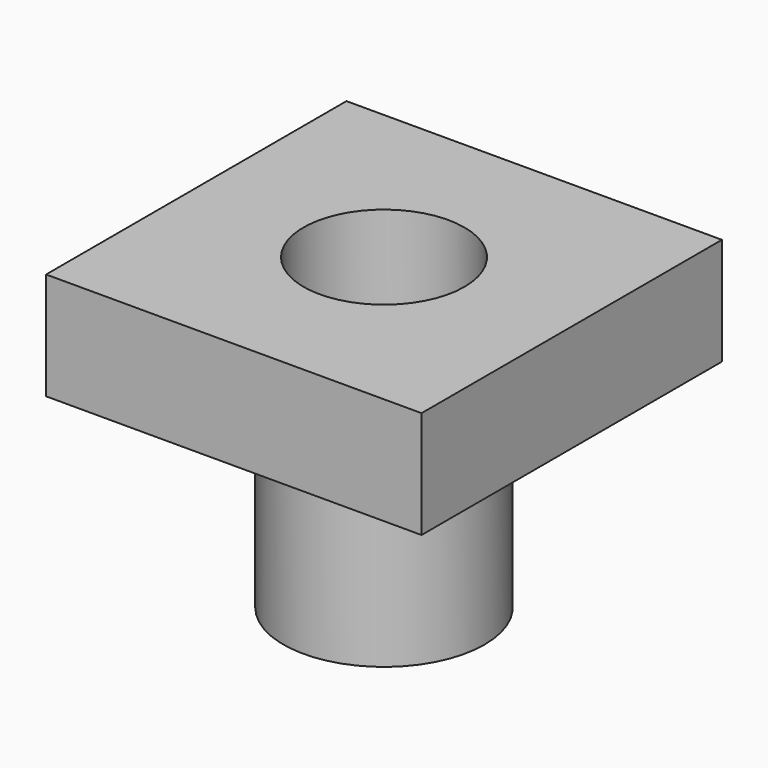
from build123d import *

# Parameters (mm, degrees)
F0_W     = 28
F0_H     = 28
F1_DEPTH = 8
F2_R     = 7.5
F3_DEPTH = 15
F4_R     = 6
F5_DEPTH = 23.001


with BuildPart() as f1:
    # F0 (on Top) → F1 (new body)
    with BuildSketch(Plane.XY):
        Rectangle(F0_W, F0_H)
    extrude(amount=F1_DEPTH)

    # F2 (on face) → F3 (join)
    with BuildSketch(Plane(origin=(0, 0, 0), x_dir=(1, 0, 0), z_dir=(0, 0, -1))):
        Circle(F2_R)
    extrude(amount=F3_DEPTH)

    # F4 (on face) → F5 (cut, through all)
    with BuildSketch(Plane(origin=(0, 0, -15), x_dir=(1, 0, 0), z_dir=(0, 0, -1))):
        Circle(F4_R)
    extrude(amount=-F5_DEPTH, mode=Mode.SUBTRACT)


solid = f1.part
